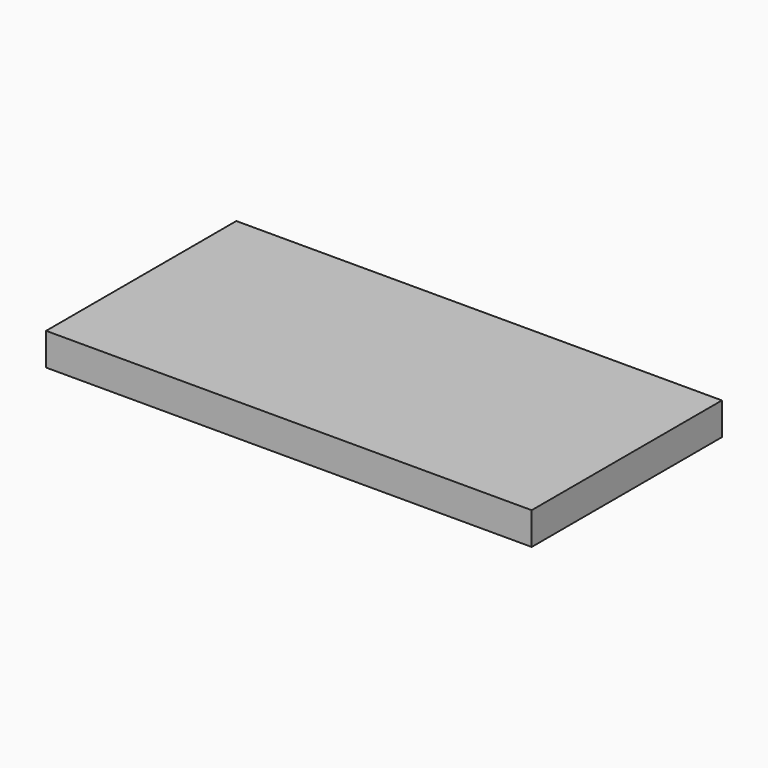
from build123d import *

# Parameters (mm, degrees)
F0_W     = 2465
F0_H     = 1300
F0_W_2   = 100
F0_W_3   = 90
F1_DEPTH = 177


with BuildPart() as f1:
    # F0 (on Top) → F1 (new body)
    with BuildSketch(Plane.XY):
        with Locations((5, 0)):
            Rectangle(F0_W, F0_H)
        with Locations((-1277.5, 0)):
            Rectangle(F0_W_2, F0_H)
        with Locations((1282.5, 0)):
            Rectangle(F0_W_3, F0_H)
    extrude(amount=-F1_DEPTH)


solid = f1.part
